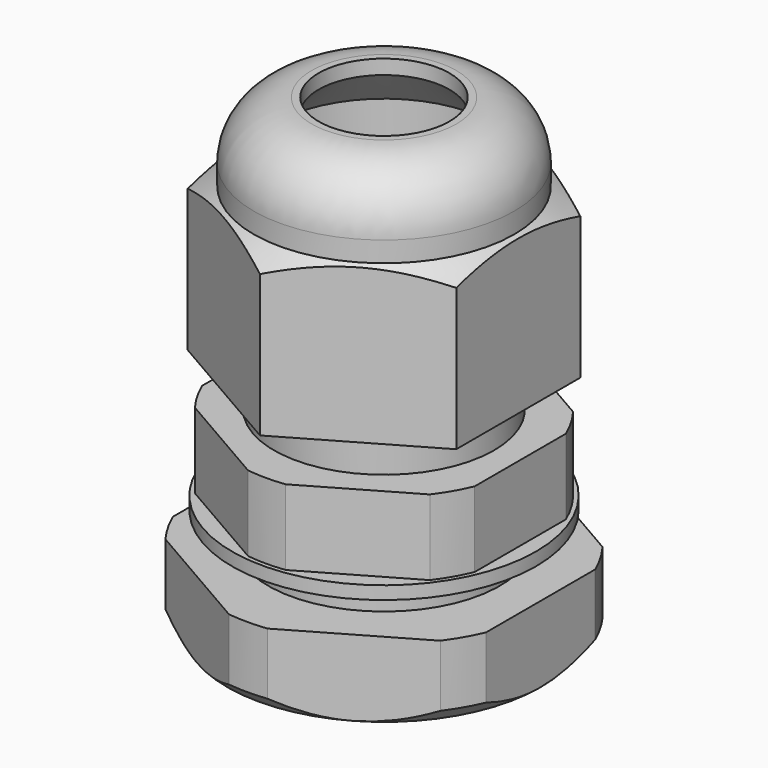
from build123d import *

# Parameters (mm, degrees)
SKETCH001_R     = 14
POCKET_DEPTH    = 14.411
SKETCH003_R     = 14
POCKET001_DEPTH = 16.211
SKETCH005_R     = 15.040905
POCKET002_DEPTH = 5.251
CHAMFER_SIZE    = 0.5
SKETCH006_R     = 10.5
SKETCH006_R_2   = 7.5
PAD_DEPTH       = 0.9


with BuildPart() as body:
    # Sketch → Revolution (revolve)
    with BuildSketch(Plane.XZ):
        Polygon((5.5, -9.2), (5.5, 16), (6.5, 16), (7.6, 10), (7.6, 5.21), (10.2, 5.21), (10.2, 0), (7.5, 0), (7.5, -8.2), (6.5, -9.2), align=None)
    revolve(axis=Axis((0, 0, 0), (0, 0, 1)))

    # Sketch001 (on Face2 of Revolution) → Pocket (cut, through all)
    with BuildSketch(Plane(origin=(0, 0, 5.21), x_dir=(-1, 0, 0), z_dir=(0, 0, 1))):
        Circle(SKETCH001_R)
        Polygon((0, 10.865732), (-9.41, 5.432866), (-9.41, -5.432866), (0, -10.865732), (9.41, -5.432866), (9.41, 5.432866), align=None, mode=Mode.SUBTRACT)
    extrude(amount=-POCKET_DEPTH, mode=Mode.SUBTRACT)


with BuildPart() as body001:
    # Sketch002 → Revolution001 (revolve)
    with BuildSketch(Plane.XZ):
        with BuildLine():
            Line((7.52, 6), (12, 6))
            Line((12, 6), (12, 15.067949))
            Line((12, 15.067949), (9, 16.8))
            Line((9, 16.8), (9, 18.21))
            ThreePointArc((9, 18.21), (7.828427, 21.038427), (5, 22.21))
            Line((4.52, 22.21), (5, 22.21))
            Line((4.52, 21.21), (4.52, 22.21))
            Line((7.52, 18.21), (4.52, 21.21))
            Line((7.52, 6), (7.52, 18.21))
        make_face()
    revolve(axis=Axis((0, 0, 0), (0, 0, 1)))

    # Sketch003 (on Face1 of Revolution001) → Pocket001 (cut, through all)
    with BuildSketch(Plane(origin=(0, 0, 6), x_dir=(1, 0, 0), z_dir=(0, 0, -1))):
        Circle(SKETCH003_R)
        Polygon((0, 10.709847), (-9.275, 5.354924), (-9.275, -5.354924), (0, -10.709847), (9.275, -5.354924), (9.275, 5.354924), align=None, mode=Mode.SUBTRACT)
    extrude(amount=-POCKET001_DEPTH, mode=Mode.SUBTRACT)


with BuildPart() as body001_1:
    # Body001 placement: moved
    add(body001.part.moved(Location((0, 0, 2))))


with BuildPart() as body002:
    # Sketch004 → Revolution002 (revolve)
    with BuildSketch(Plane.YZ):
        Polygon((7.5, 0), (7.5, -5.25), (10.815, -5.25), (11.8, -4.265), (11.8, 0), align=None)
    revolve(axis=Axis((0, 0, 0), (0, 0, 1)))

    # Sketch005 (on Face2 of Revolution002) → Pocket002 (cut, through all)
    with BuildSketch(Plane.YX.offset(5.25)):
        Circle(SKETCH005_R)
        Polygon((12.488086, 0), (6.244043, 10.815), (-6.244043, 10.815), (-12.488086, 0), (-6.244043, -10.815), (6.244043, -10.815), align=None, mode=Mode.SUBTRACT)
    extrude(amount=-POCKET002_DEPTH, mode=Mode.SUBTRACT)

    # Chamfer
    chamfer_edges = [body002.edges().sort_by_distance(p)[0] for p in [
        (0, -7.5, -5.25),
        (0, -7.5, 0),
    ]]
    chamfer(chamfer_edges, length=CHAMFER_SIZE)


with BuildPart() as body002_1:
    # Body002 placement: moved
    add(body002.part.moved(Location((0, 0, -2.9))))


with BuildPart() as body003:
    # Sketch006 → Pad (new body)
    with BuildSketch(Plane.XY):
        Circle(SKETCH006_R)
        Circle(SKETCH006_R_2, mode=Mode.SUBTRACT)
    extrude(amount=-PAD_DEPTH)


solid = Compound([body.part, body001_1.part, body002_1.part, body003.part])
